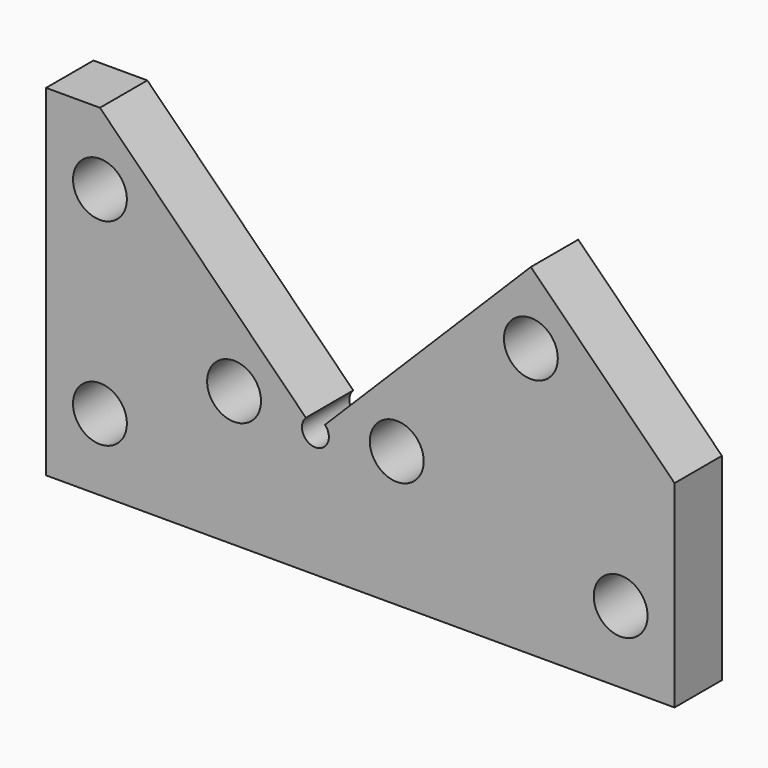
from build123d import *

# Parameters (mm, degrees)
F0_R     = 3
F1_DEPTH = 6.6


with BuildPart() as f1:
    # F0 (on Front) → F1 (new body)
    with BuildSketch(Plane.XZ):
        with BuildLine():
            Line((0, 38), (0, 0))
            Line((0, 0), (70, 0))
            Line((70, 0), (70, 21.999999))
            Line((70, 21.999999), (54, 38))
            Line((54, 38), (31.060658, 15.06066))
            ThreePointArc((31.060658, 15.06066), (29.999998, 12.5), (28.939338, 15.06066))
            Line((28.939338, 15.06066), (6, 38))
            Line((6, 38), (0, 38))
        make_face()
        with Locations((6, 8)):
            Circle(F0_R, mode=Mode.SUBTRACT)
        with Locations((20.939338, 15.060661)):
            Circle(F0_R, mode=Mode.SUBTRACT)
        with Locations((64, 8)):
            Circle(F0_R, mode=Mode.SUBTRACT)
        with Locations((39.060658, 15.060661)):
            Circle(F0_R, mode=Mode.SUBTRACT)
        with Locations((6, 30)):
            Circle(F0_R, mode=Mode.SUBTRACT)
        with Locations((53.999996, 30)):
            Circle(F0_R, mode=Mode.SUBTRACT)
    extrude(amount=-F1_DEPTH)


solid = f1.part
